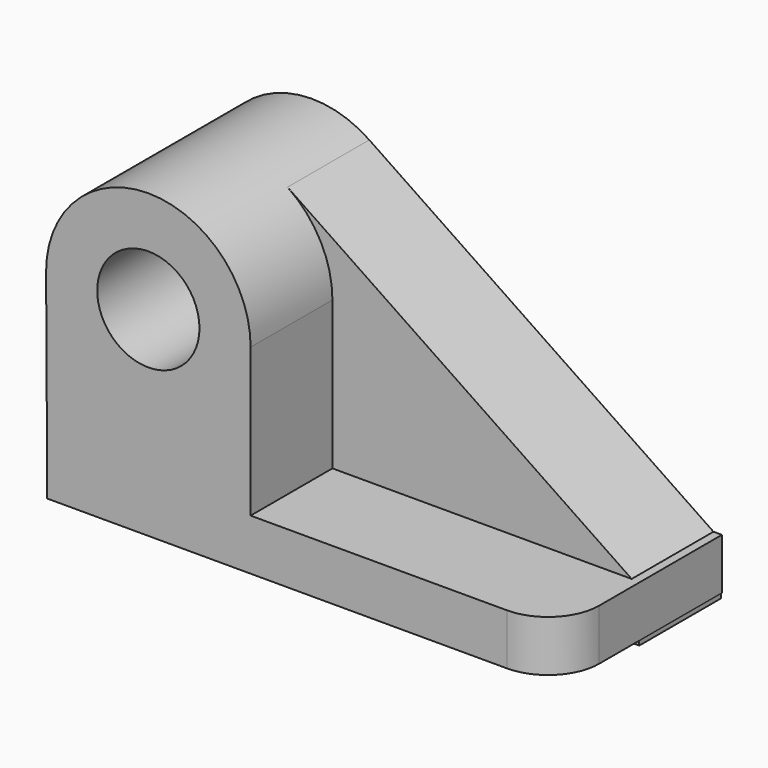
from build123d import *

# Parameters (mm, degrees)
F0_R     = 12.7
F1_DEPTH = 25.4
F2_R     = 12.7
F3_DEPTH = 50.8
F4_R     = 12.7


with BuildPart() as f1:
    # F0 (on Front) → F1 (new body)
    with BuildSketch(Plane.XZ):
        with BuildLine():
            Line((101.6, -38.1), (14.237873, 21.034328))
            ThreePointArc((14.237873, 21.034328), (-11.906259, 22.436599), (-25.4, 0))
            Line((-25.4, 0), (-25.4, -50.8))
            Line((-25.4, -50.8), (101.6, -50.8))
            Line((101.6, -50.8), (101.6, -38.1))
        make_face()
        Circle(F0_R, mode=Mode.SUBTRACT)
    extrude(amount=F1_DEPTH)

    # F2 (on Front) → F3 (join)
    with BuildSketch(Plane.XZ):
        with BuildLine():
            Line((25.4, -36.83), (25.4, 0))
            ThreePointArc((25.4, 0), (0, 25.4), (-25.4, 0))
            Line((-25.4, 0), (-25.183568, -36.83))
            Line((-25.183568, -36.83), (-25.183568, -49.53))
            Line((-25.183568, -49.53), (101.816432, -49.53))
            Line((101.816432, -49.53), (101.816432, -36.83))
            Line((101.816432, -36.83), (25.4, -36.83))
        make_face()
        Circle(F2_R, mode=Mode.SUBTRACT)
    extrude(amount=F3_DEPTH)

    # F4
    f4_edges = [f1.edges().sort_by_distance(p)[0] for p in [
        (101.816432, -50.8, -43.18),
    ]]
    fillet(f4_edges, radius=F4_R)


solid = f1.part
